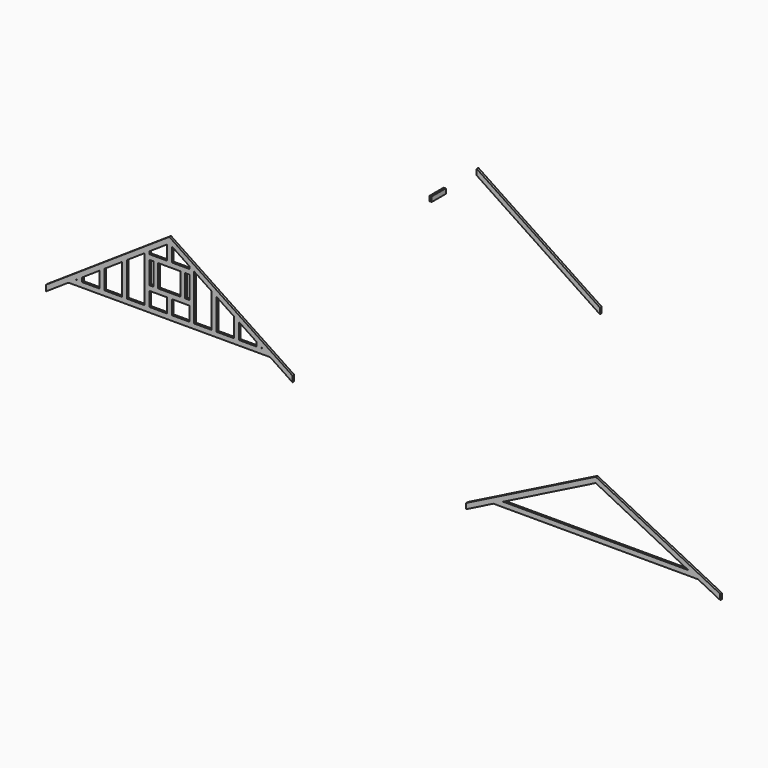
from build123d import *

# Parameters (mm, degrees)
F1_DEPTH = 38.1
F2_W     = 317.5
F2_H     = 258.233333
F2_W_2   = 76.2
F2_H_2   = 406.4
F3_DEPTH = 38.1
F5_W     = 38.1
F5_H     = 88.9
F6_DEPTH = 319.0875
F7_DEPTH = 38.1


with BuildPart() as f1:
    # F0 (on Front) → F1 (new body)
    with BuildSketch(Plane.XZ):
        Polygon((-592.93803, -142.161947), (-99.942244, 105.789102), (3610.893464, 105.789102), (4013.664407, -96.783578), (4013.664407, 2.727108), (1755.47561, 1138.477752), (-592.93803, -42.65126), align=None)
        Polygon((3434.135489, 194.689102), (1738.685489, 194.689102), (76.815731, 194.689102), (1755.47561, 1038.967065), align=None, mode=Mode.SUBTRACT)
    extrude(amount=F1_DEPTH)


with BuildPart() as f3:
    # F2 (on Front) → F3 (new body)
    with BuildSketch(Plane.XZ):
        Polygon((-8213.219005, 857.397658), (-7806.819005, 1128.330991), (-4149.219005, 1128.330991), (-3742.819005, 857.397658), (-3742.819005, 964.24216), (-5978.019005, 2454.375494), (-8213.219005, 964.24216), align=None)
        Polygon((-7648.069005, 1234.164324), (-7648.069005, 1217.230991), (-7673.469005, 1217.230991), align=None, mode=Mode.SUBTRACT)
        Polygon((-7241.669005, 1505.097658), (-7241.669005, 1217.230991), (-7559.169005, 1217.230991), (-7559.169005, 1293.430991), align=None, mode=Mode.SUBTRACT)
        with Locations((-6181.219005, 1346.347657)):
            Rectangle(F2_W, F2_H, mode=Mode.SUBTRACT)
        Polygon((-6835.269005, 1776.030991), (-6835.269005, 1217.230991), (-7152.769005, 1217.230991), (-7152.769005, 1564.364324), align=None, mode=Mode.SUBTRACT)
        Polygon((-6428.869005, 2046.964324), (-6428.869005, 1217.230991), (-6746.369005, 1217.230991), (-6746.369005, 1835.297658), align=None, mode=Mode.SUBTRACT)
        Polygon((-4282.569005, 1217.230991), (-4307.969005, 1217.230991), (-4307.969005, 1234.164324), align=None, mode=Mode.SUBTRACT)
        Polygon((-5908.169005, 1217.230991), (-5933.569005, 1217.230991), (-5933.569005, 1475.464324), (-5616.069005, 1475.464324), (-5616.069005, 1217.230991), align=None, mode=Mode.SUBTRACT)
        Polygon((-5095.369005, 1217.230991), (-5120.769005, 1217.230991), (-5120.769005, 1776.030991), (-4803.269005, 1564.364324), (-4803.269005, 1217.230991), align=None, mode=Mode.SUBTRACT)
        Polygon((-5501.769005, 1217.230991), (-5527.169005, 1217.230991), (-5527.169005, 2046.964324), (-5209.669005, 1835.297658), (-5209.669005, 1217.230991), align=None, mode=Mode.SUBTRACT)
        Polygon((-4688.969005, 1217.230991), (-4714.369005, 1217.230991), (-4714.369005, 1505.097658), (-4396.869005, 1293.430991), (-4396.869005, 1217.230991), align=None, mode=Mode.SUBTRACT)
        with Locations((-6301.869005, 1767.564324)):
            Rectangle(F2_W_2, F2_H_2, mode=Mode.SUBTRACT)
        Polygon((-6022.469005, 2317.897658), (-6022.469005, 2059.664324), (-6339.969005, 2059.664324), (-6339.969005, 2106.230991), align=None, mode=Mode.SUBTRACT)
        Polygon((-5774.819005, 1564.364324), (-5781.169005, 1564.364324), (-6174.869005, 1564.364324), (-6181.219005, 1564.364324), (-6181.219005, 1970.764324), (-5774.819005, 1970.764324), align=None, mode=Mode.SUBTRACT)
        Polygon((-5692.269005, 1970.764324), (-5616.069005, 1970.764324), (-5616.069005, 1767.564324), (-5616.069005, 1564.364324), (-5692.269005, 1564.364324), align=None, mode=Mode.SUBTRACT)
        Polygon((-5616.069005, 2106.230991), (-5616.069005, 2059.664324), (-5933.569005, 2059.664324), (-5933.569005, 2317.897658), align=None, mode=Mode.SUBTRACT)
    extrude(amount=F3_DEPTH)


with BuildPart() as f6:
    # F5 (on Front) → F6 (new body)
    with BuildSketch(Plane.XZ):
        with Locations((-1014.070092, 4789.384082)):
            Rectangle(F5_W, F5_H)
    extrude(amount=F6_DEPTH)


with BuildPart() as f7:
    # F4 (on Front) → F7 (new body)
    with BuildSketch(Plane.XZ):
        Polygon((1625.975857, 3895.027677), (1832.31463, 3757.468494), (1832.31463, 3864.312997), (1675.288704, 3968.996948), align=None)
        Polygon((1287.832451, 4120.456614), (1625.975857, 3895.027677), (1675.288704, 3968.996948), (1337.145299, 4194.425885), align=None)
        Polygon((949.689045, 4345.885551), (1287.832451, 4120.456614), (1337.145299, 4194.425885), (999.001893, 4419.854822), align=None)
        Polygon((611.545639, 4571.314489), (949.689045, 4345.885551), (999.001893, 4419.854822), (660.858487, 4645.28376), align=None)
        Polygon((273.402233, 4796.743426), (611.545639, 4571.314489), (660.858487, 4645.28376), (322.715081, 4870.712697), align=None)
        Polygon((-64.741173, 5022.172363), (273.402233, 4796.743426), (322.715081, 4870.712697), (-15.428325, 5096.141634), align=None)
        Polygon((-402.884579, 5247.601301), (-64.741173, 5022.172363), (-15.428325, 5096.141634), (-353.571731, 5321.570572), align=None)
        Polygon((-402.884579, 5354.445803), (-402.884579, 5247.601301), (-353.571731, 5321.570572), align=None)
    extrude(amount=F7_DEPTH)


solid = Compound([f1.part, f3.part, f6.part, f7.part])
